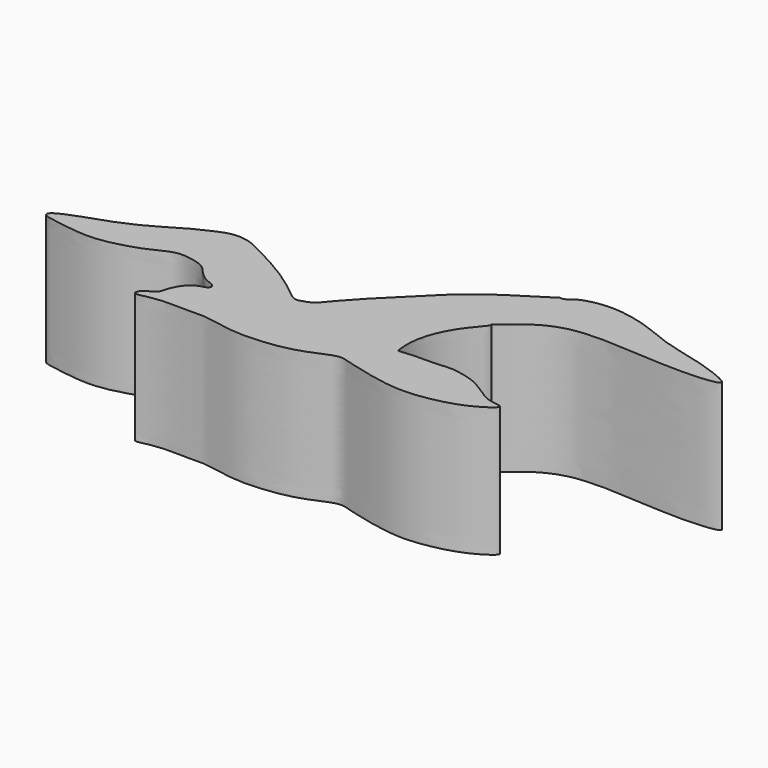
from build123d import *

# Parameters (mm, degrees)
F1_DEPTH = 25


with BuildPart() as f1:
    # F0 (on Top) → F1 (new body)
    with BuildSketch(Plane.XY):
        with BuildLine():
            add(Edge.make_bspline(
                [(-56.7954219878, -12.4103110284), (-55.4336734914, -11.5384091542), (-51.635729934, -10.2241139353), (-47.8377863765, -8.9098187163)],
                knots=[0.9657280933, 0.9657280933, 0.9657280933, 0.9657280933, 1, 1, 1, 1], degree=3))
            add(Edge.make_bspline(
                [(-56.7954219878, -12.4103110284), (-53.5327322538, -11.1605755417), (-50.2700110763, -9.9108164869), (-47.8377863765, -8.9098187163)],
                knots=[0, 0, 0, 0, 0.1921990945, 0.1921990945, 0.1921990945, 0.1921990945], degree=3))
        make_face()
        with BuildLine():
            add(Edge.make_bspline(
                [(-56.7954219878, -12.4103110284), (-53.5327322538, -11.1605755417), (-50.2700110763, -9.9108164869), (-47.8377863765, -8.9098187163)],
                knots=[0, 0, 0, 0, 0.1921990945, 0.1921990945, 0.1921990945, 0.1921990945], degree=3))
            add(Edge.make_bspline(
                [(17.1876940876, 0.4405452346), (17.2225342255, 0.3148306502), (17.3516674808, -0.1511242652), (14.8536629974, -2.7068701886), (12.4181605884, -6.760075142), (11.1613045538, -11.347549791), (11.5041665048, -14.7507189722), (11.7265495114, -15.1580576529), (13.8228538533, -14.7013412865), (18.1477865078, -14.8576624309), (21.2172617878, -14.5132586254), (23.0780591332, -14.7111129581), (26.7733472122, -15.545622429), (29.8245922475, -17.6990705396), (32.36676409, -19.3222227344), (35.9861449448, -19.3375594238), (32.7245787201, -21.7408958511), (29.0907100016, -23.3777752945), (24.8318336335, -24.384665446), (20.5145928376, -24.910407892), (16.032586746, -24.4516133109), (11.7360843173, -23.4679311915), (8.1475080713, -22.5348948108), (6.1221437103, -21.8288725096), (3.4166673281, -22.8822037699), (0.5321579517, -24.1954833822), (-3.3386486859, -25.1966336326), (-8.086122505, -25.662285739), (-12.4307131675, -25.6035243896), (-17.3798152821, -24.4902076081), (-19.2215115852, -24.4437790492), (-22.3484024264, -24.5888498578), (-25.5153090315, -24.3571084614), (-28.7137612335, -24.773295464), (-31.4682535231, -25.5583772655), (-30.7803795497, -23.5725195692), (-28.361125445, -22.8508090943), (-28.2207617802, -20.9830106818), (-26.2731902285, -17.1647511744), (-23.2359723674, -17.0582969943), (-23.3131145097, -15.6612513488), (-25.1728087735, -15.2628450218), (-27.2478607653, -13.6607491105), (-28.4762011962, -11.6962379836), (-32.3129828036, -10.7796884448), (-35.0741601034, -10.9367417021), (-38.4572735774, -12.8985575009), (-42.879223626, -14.3086908237), (-47.9218960525, -15.3119792027), (-53.6614722492, -14.4215706115), (-57.3760014759, -13.873385022), (-57.548265244, -13.0888923646), (-57.2353276053, -12.6919742969), (-56.7954219878, -12.4103110284)],
                knots=[0, 0, 0, 0, 0.0073351108, 0.0271872268, 0.0519717465, 0.0766983198, 0.0961409405, 0.1019463738, 0.1168915258, 0.1406900956, 0.1599588452, 0.1749039934, 0.1960732305, 0.2175769022, 0.237524947, 0.2539988146, 0.2716096458, 0.2949081059, 0.3178875063, 0.3408771958, 0.3642871247, 0.3877666839, 0.4088938899, 0.4246167033, 0.4427981481, 0.4626234343, 0.4846958816, 0.5086991063, 0.5323599614, 0.5567543412, 0.571906138, 0.5909863743, 0.6109301304, 0.6316199442, 0.647438322, 0.6596534679, 0.6764553154, 0.691000147, 0.7132582542, 0.7308084679, 0.740522816, 0.7550491614, 0.7728864335, 0.7895131364, 0.8107265373, 0.8291142326, 0.8505282415, 0.874384745, 0.8994302108, 0.9268505141, 0.9470678146, 0.954656736, 0.9657280933, 0.9657280933, 0.9657280933, 0.9657280933], degree=3))
            add(Edge.make_bspline(
                [(-26.3838861138, -2.0192433149), (-24.9685280309, -2.6999806312), (-22.0020387957, -4.1267573216), (-16.7910005004, -7.2945221658), (-14.3102156437, -9.2214544187), (-11.3065063209, -11.7321599783), (-10.243901401, -11.582844387), (-7.993625014, -10.9002941484), (-7.0087286655, -9.52598417), (-4.2347667594, -6.4600235608), (-1.6726575012, -3.676080855), (3.3537732956, 1.1409765491), (9.4319679946, 7.5335859561), (18.8926538505, 12.7556973342), (19.5725880132, 13.7854821623), (20.620930925, 13.4104321646), (22.0732600624, 15.083968753), (26.3712943448, 16.0649765186), (30.4477598984, 15.9342221478), (35.9070404288, 14.667989079), (41.5044410474, 12.0074828339), (48.6503656006, 10.5537066393), (54.0769200216, 8.6776958683), (57.1866865879, 6.9675209663), (52.0034663075, 6.3299697782), (47.4879126056, 6.3024557668), (40.9890781646, 6.5915620398), (34.738141981, 7.0547395812), (31.1386512314, 6.9766541091), (27.1660966034, 6.6851178378), (22.99313874, 5.0397990292), (20.2279223122, 2.7907666105), (18.2128479017, 1.2330312684), (17.1876940876, 0.4405452346)],
                knots=[0, 0, 0, 0, 0.0353917809, 0.0741786396, 0.1037964064, 0.1337925427, 0.1498595801, 0.1731306033, 0.1940555046, 0.2256653228, 0.2571568023, 0.2980196032, 0.3479691144, 0.3989519521, 0.4141166943, 0.4281812519, 0.4504475336, 0.4834225748, 0.5159442328, 0.5530613662, 0.592863877, 0.6361783924, 0.6756436801, 0.6974467406, 0.7273939828, 0.7634428952, 0.8041020423, 0.8439542735, 0.8739889685, 0.9054295455, 0.9388560948, 0.9688935023, 1, 1, 1, 1], degree=3))
            add(Edge.make_bspline(
                [(-47.8377863765, -8.9098187163), (-46.1434731309, -8.2125131666), (-43.6965938421, -7.1199360116), (-40.3023664199, -5.0821974793), (-37.4701479035, -3.3766411345), (-33.128168216, -1.2924614505), (-30.5663887833, -0.7291238176), (-27.785921214, -1.2011952485), (-26.4637525459, -1.972643497), (-26.3838861138, -2.0192433149)],
                knots=[0.1921990945, 0.1921990945, 0.1921990945, 0.1921990945, 0.3260870003, 0.4459024865, 0.5608038568, 0.6953982214, 0.7964569312, 0.9022708658, 0.9747056115, 0.9747056115, 0.9747056115, 0.9747056115], degree=3))
        make_face()
    extrude(amount=F1_DEPTH)


solid = f1.part
